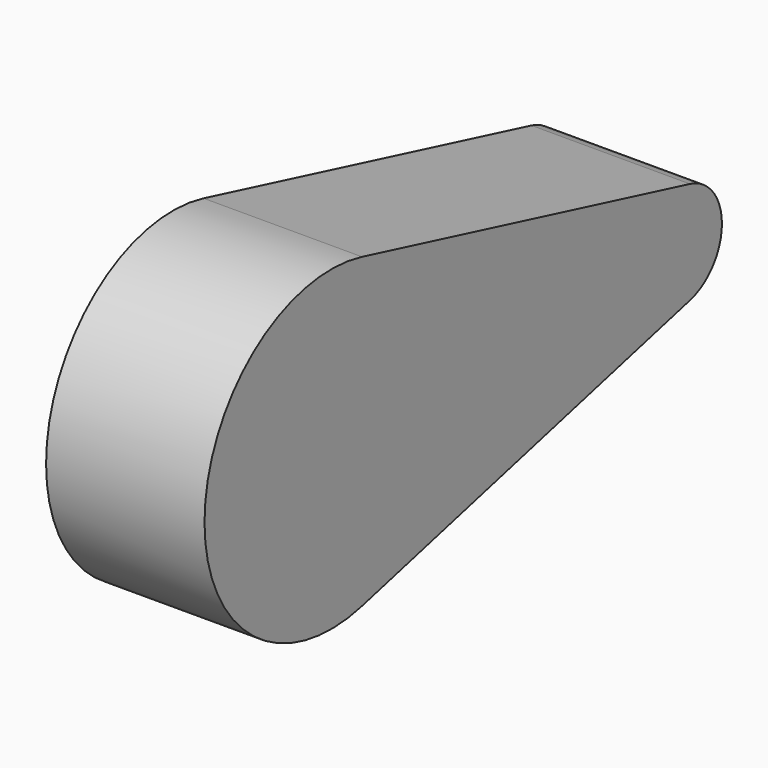
from build123d import *

# Parameters (mm, degrees)
F1_DEPTH = 76.2


with BuildPart() as f1:
    # F0 (on Right) → F1 (new body)
    with BuildSketch(Plane.YZ):
        with BuildLine():
            ThreePointArc((18.481215, -73.924859), (60.061254, -46.89441), (76.2, 0))
            ThreePointArc((76.2, 0), (60.061254, 46.89441), (18.481215, 73.924859))
            ThreePointArc((18.481215, 73.924859), (-76.2, 0), (18.481215, -73.924859))
        make_face()
        with BuildLine():
            ThreePointArc((18.481215, 73.924859), (60.061254, 46.89441), (76.2, 0))
            ThreePointArc((76.2, 0), (60.061254, -46.89441), (18.481215, -73.924859))
            Line((18.481215, -73.924859), (215.614171, -24.64162))
            ThreePointArc((215.614171, -24.64162), (184.053766, 0), (215.614171, 24.64162))
            Line((215.614171, 24.64162), (18.481215, 73.924859))
        make_face()
        with BuildLine():
            ThreePointArc((234.853766, 0), (229.474184, 15.63147), (215.614171, 24.64162))
            ThreePointArc((215.614171, 24.64162), (184.053766, 0), (215.614171, -24.64162))
            ThreePointArc((215.614171, -24.64162), (229.474184, -15.63147), (234.853766, 0))
        make_face()
    extrude(amount=F1_DEPTH)


solid = f1.part
